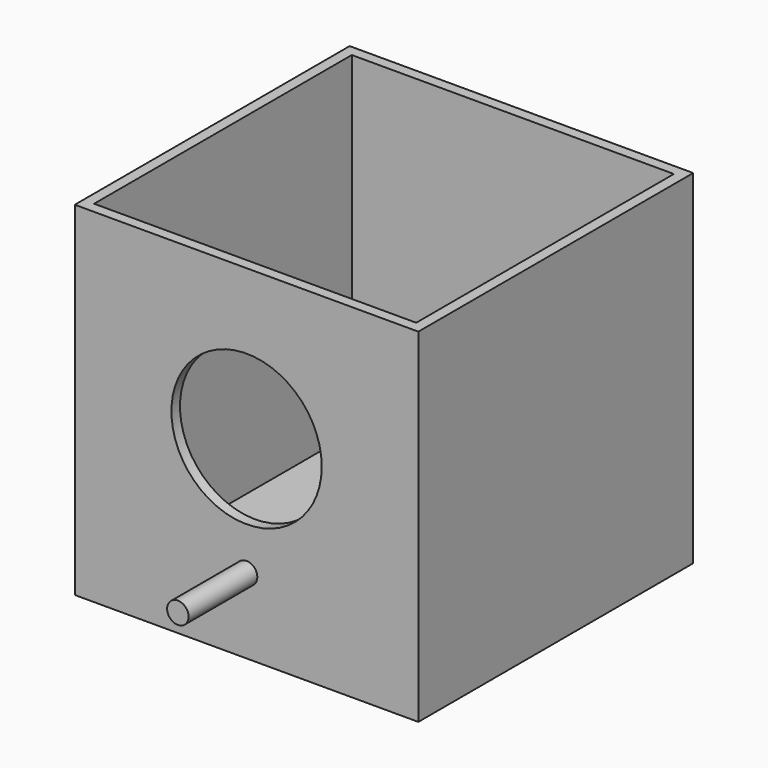
from build123d import *

# Parameters (mm, degrees)
F0_W     = 203.2
F0_H     = 203.2
F1_DEPTH = 203.2
F2_T     = -6.35
F3_R     = 44.45
F4_DEPTH = 6.35
F5_R     = 6.35
F6_DEPTH = 50.8


with BuildPart() as f1:
    # F0 (on Front) → F1 (new body)
    with BuildSketch(Plane.XZ):
        with Locations((101.6, 101.6)):
            Rectangle(F0_W, F0_H)
    extrude(amount=F1_DEPTH)

    # F2
    f2_openings = [f1.faces().sort_by_distance(p)[0] for p in [
        (101.6, -101.6, 203.2),
    ]]
    offset(amount=F2_T, openings=f2_openings)

    # F3 (on face) → F4 (cut)
    with BuildSketch(Plane.XZ.offset(203.2)):
        with Locations((101.6, 114.3)):
            Circle(F3_R)
    extrude(amount=-F4_DEPTH, mode=Mode.SUBTRACT)


with BuildPart() as f6:
    # F5 (on face) → F6 (new body)
    with BuildSketch(Plane.XZ.offset(203.2)):
        with Locations((101.6, 44.45)):
            Circle(F5_R)
    extrude(amount=F6_DEPTH)


solid = Compound([f1.part, f6.part])
